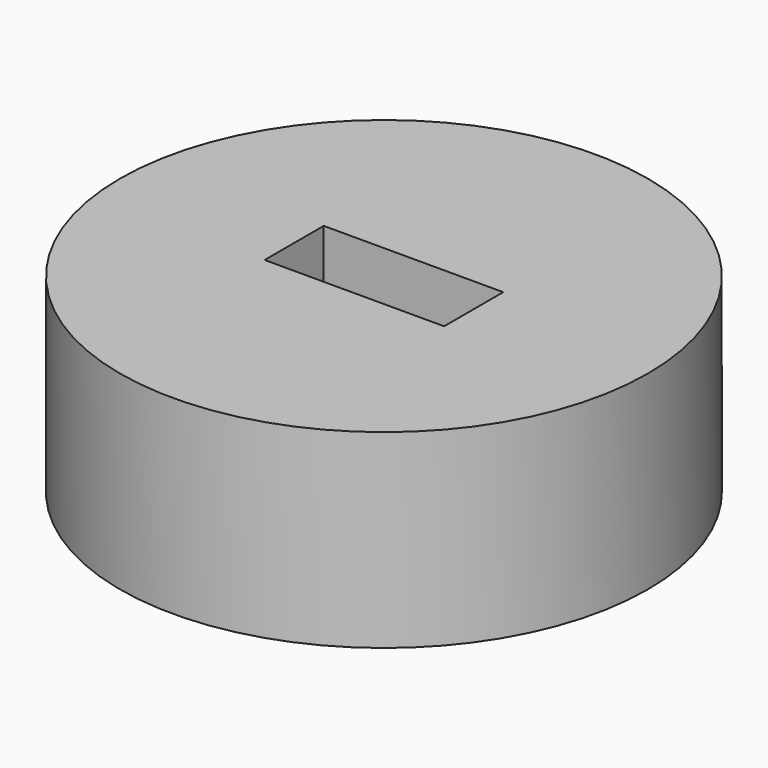
from build123d import *

# Parameters (mm, degrees)
F0_R     = 25
F0_W     = 17
F0_H     = 7
F1_DEPTH = 18
F3_D     = 10
F3_DEPTH = 100
F3_TIP   = 3.0043030951
F4_W     = 17
F4_H     = 1
F5_DEPTH = 2
F6_W     = 3.5
F6_H     = 1
F7_DEPTH = 2


with BuildPart() as f1:
    # F0 (on Top) → F1 (new body)
    with BuildSketch(Plane.XY):
        Circle(F0_R)
        Rectangle(F0_W, F0_H, mode=Mode.SUBTRACT)
    extrude(amount=F1_DEPTH)

    # F3 (one way)
    with BuildSketch(Plane(origin=(0, -3.5, 0), x_dir=(-1, 0, 0), z_dir=(0, -1, 0))):
        with Locations((0, 0)):
            Circle(F3_D / 2)
    extrude(amount=-F3_DEPTH, mode=Mode.SUBTRACT)
    with Locations(Plane(origin=(0, -3.5, 0), x_dir=(-1, 0, 0), z_dir=(0, -1, 0))):
        with Locations((0, 0)):
            with Locations((0, 0, -(F3_DEPTH + F3_TIP / 2))):  # 118° drill point
                Cone(0, F3_D / 2, F3_TIP, mode=Mode.SUBTRACT)

    # F4 (on face) → F5 (join)
    with BuildSketch(Plane(origin=(0, -3.5, 0), x_dir=(-1, 0, 0), z_dir=(0, 1, 0))):
        with Locations((0, 0.5)):
            Rectangle(F4_W, F4_H)
    extrude(amount=F5_DEPTH)

    # F6 (on face) → F7 (join)
    with BuildSketch(Plane.XZ.offset(-3.5)):
        with Locations((-6.75, 0.5)):
            Rectangle(F6_W, F6_H)
        with Locations((6.75, 0.5)):
            Rectangle(F6_W, F6_H)
    extrude(amount=F7_DEPTH)


solid = f1.part
